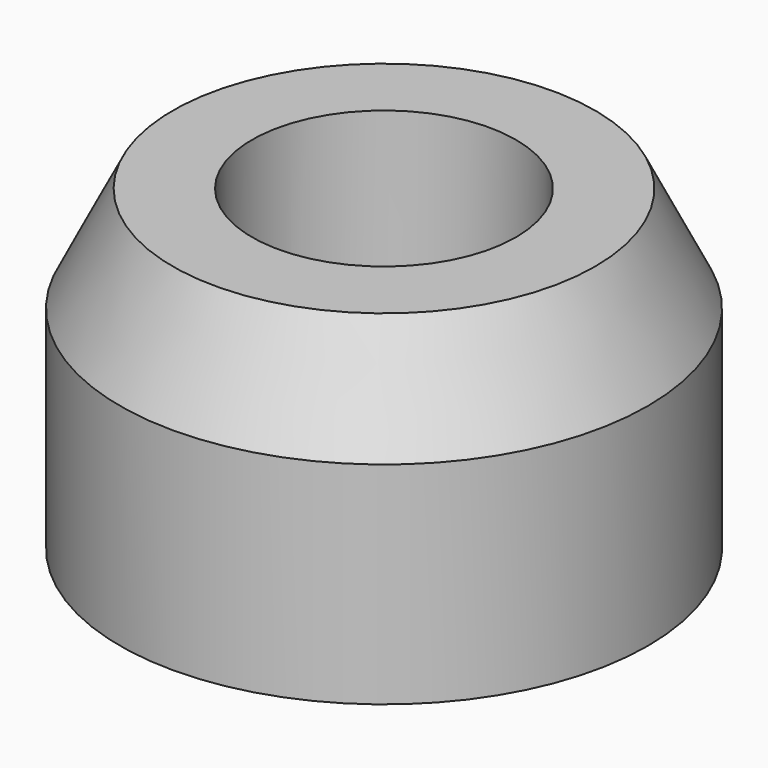
from build123d import *

# Parameters (mm, degrees)
F0_R      = 25
F0_R_2    = 3
F0_R_3    = 12.5
F1_DEPTH  = 20
F2_R      = 25
F2_R_2    = 12.5
F3_DEPTH  = 10
F4_SIZE2  = 10
F4_SIZE   = 5
F5_R      = 4
F6_DEPTH  = 26.0000001
F8_R      = 7
F9_DEPTH  = 5
F10_DEPTH = 20


with BuildPart() as f1:
    # F0 (on Top) → F1 (new body)
    with BuildSketch(Plane.XY):
        Circle(F0_R)
        with Locations((-15.5884572681, -9)):
            Circle(F0_R_2, mode=Mode.SUBTRACT)
        with Locations((0, -18)):
            Circle(F0_R_2, mode=Mode.SUBTRACT)
        with Locations((15.5884572681, -9)):
            Circle(F0_R_2, mode=Mode.SUBTRACT)
        with Locations((-15.5884572681, 9)):
            Circle(F0_R_2, mode=Mode.SUBTRACT)
        Circle(F0_R_3, mode=Mode.SUBTRACT)
        with Locations((15.5884572681, 9)):
            Circle(F0_R_2, mode=Mode.SUBTRACT)
        with Locations((0, 18)):
            Circle(F0_R_2, mode=Mode.SUBTRACT)
        with Locations((0, -18)):
            Circle(F0_R_2)
        with Locations((-15.5884572681, -9)):
            Circle(F0_R_2)
        with Locations((15.5884572681, -9)):
            Circle(F0_R_2)
        with Locations((15.5884572681, 9)):
            Circle(F0_R_2)
        with Locations((0, 18)):
            Circle(F0_R_2)
        with Locations((-15.5884572681, 9)):
            Circle(F0_R_2)
    extrude(amount=F1_DEPTH)

    # F2 (on face) → F3 (join)
    with BuildSketch(Plane.XY.offset(20)):
        Circle(F2_R)
        Circle(F2_R_2, mode=Mode.SUBTRACT)
    extrude(amount=F3_DEPTH)

    # F4
    f4_edges = [f1.edges().sort_by_distance(p)[0] for p in [
        (-25, 0, 30),
    ]]
    f4_side = f1.faces().sort_by_distance((-24.292893, 0, 30))[0]
    chamfer(f4_edges, length=F4_SIZE, length2=F4_SIZE2, reference=f4_side)

    # F5 (on Right) → F6 (cut, up to face)
    with BuildSketch(Plane.YZ):
        with Locations((0, 12)):
            Circle(F5_R)
    extrude(amount=-F6_DEPTH, mode=Mode.SUBTRACT)

    # F8 (on offset) → F9 (cut)
    with BuildSketch(Plane.YZ.offset(-25)):
        with Locations((0, 12)):
            Circle(F8_R)
    extrude(amount=F9_DEPTH, mode=Mode.SUBTRACT)

    # F0 (on Top) → F10 (cut)
    with BuildSketch(Plane.XY):
        with Locations((0, -18)):
            Circle(F0_R_2)
        with Locations((15.5884572681, -9)):
            Circle(F0_R_2)
        with Locations((15.5884572681, 9)):
            Circle(F0_R_2)
        with Locations((0, 18)):
            Circle(F0_R_2)
        with Locations((-15.5884572681, 9)):
            Circle(F0_R_2)
        with Locations((-15.5884572681, -9)):
            Circle(F0_R_2)
    extrude(amount=F10_DEPTH, mode=Mode.SUBTRACT)


solid = f1.part
